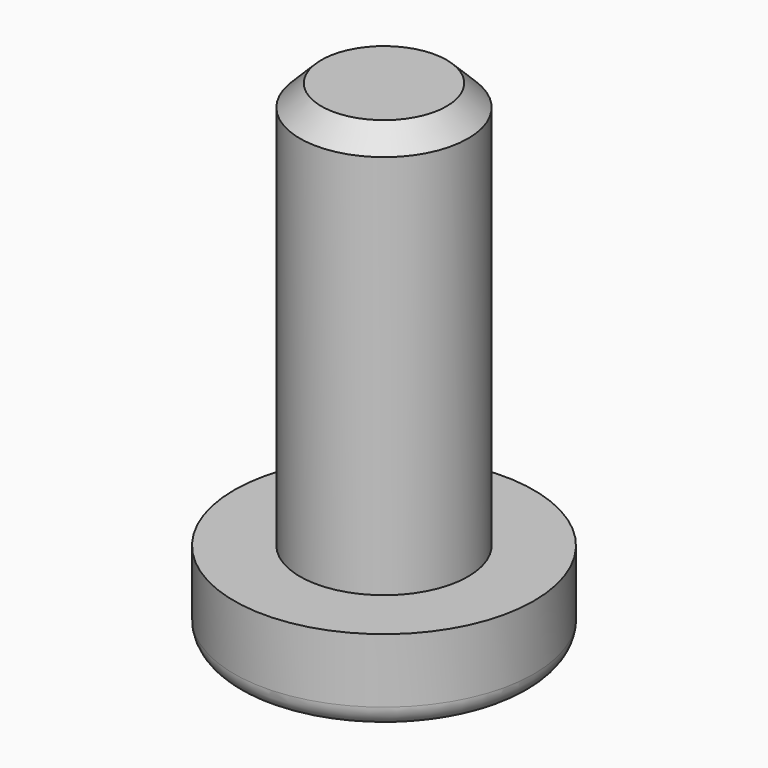
from build123d import *

# Parameters (mm, degrees)
SKETCH_R     = 7
PAD_DEPTH    = 4
SKETCH001_R  = 3.925
PAD001_DEPTH = 19
CHAMFER_SIZE = 1
FILLET_R     = 1


with BuildPart() as part:
    # Sketch → Pad (new body)
    with BuildSketch(Plane.XY):
        Circle(SKETCH_R)
    extrude(amount=PAD_DEPTH)

    # Sketch001 (on Face3 of Pad) → Pad001 (join)
    with BuildSketch(Plane.XY.offset(4)):
        Circle(SKETCH001_R)
    extrude(amount=PAD001_DEPTH)

    # Chamfer
    chamfer_edges = [part.edges().sort_by_distance(p)[0] for p in [
        (-3.925, 0, 23),
    ]]
    chamfer(chamfer_edges, length=CHAMFER_SIZE)

    # Fillet
    fillet_edges = [part.edges().sort_by_distance(p)[0] for p in [
        (-7, 0, 0),
    ]]
    fillet(fillet_edges, radius=FILLET_R)


solid = part.part
